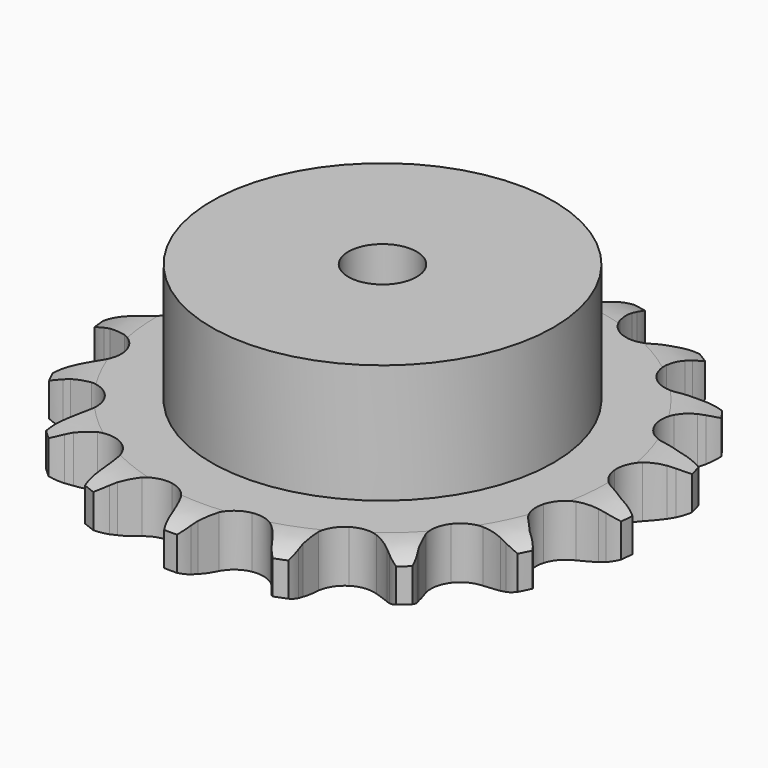
from build123d import *

# Parameters (mm, degrees)
PAD_DEPTH         = 9.1
SKETCH001_R       = 30
PAD001_DEPTH      = 30
SKETCH002_R       = 6
POCKET_DEPTH      = 0.001
POCKET_DEPTH_BACK = -30.001


with BuildPart() as part:
    # Sprocket → Pad (new body)
    with BuildSketch(Plane.XY):
        with BuildLine():
            ThreePointArc((-8.836145, 47.269199), (-7.344654, 45.791561), (-6.264221, 43.991388))
            Line((-6.264221, 43.991388), (-5.782246, 42.899818))
            ThreePointArc((-5.782246, 42.899818), (-4.996348, 41.390123), (-4.023701, 39.993422))
            ThreePointArc((-4.023701, 39.993422), (-2.23338, 38.564077), (0, 38.053892))
            ThreePointArc((0, 38.053892), (2.23338, 38.564077), (4.023701, 39.993422))
            ThreePointArc((4.023701, 39.993422), (4.996348, 41.390123), (5.782246, 42.899818))
            Line((5.782246, 42.899818), (6.264221, 43.991388))
            ThreePointArc((6.264221, 43.991388), (7.344654, 45.791561), (8.836145, 47.269199))
            ThreePointArc((8.836145, 47.269199), (9.693134, 45.352554), (10.05031, 43.283645))
            Line((10.05031, 43.283645), (10.105418, 42.091677))
            ThreePointArc((10.105418, 42.091677), (10.292881, 40.400029), (10.695301, 38.746284))
            ThreePointArc((10.695301, 38.746284), (11.848387, 36.766721), (13.746651, 35.484198))
            ThreePointArc((13.746651, 35.484198), (16.013516, 35.153141), (18.19928, 35.839227))
            Line((18.19928, 35.839227), (20.888986, 37.914101))
            ThreePointArc((20.888986, 37.914101), (21.301372, 38.345463), (21.732734, 38.75785))
            ThreePointArc((21.732734, 38.75785), (23.390506, 40.046164), (25.315064, 40.885232))
            ThreePointArc((25.315064, 40.885232), (25.42181, 38.788433), (25.007491, 36.730206))
            Line((25.007491, 36.730206), (24.628289, 35.598822))
            ThreePointArc((24.628289, 35.598822), (24.192, 33.953688), (23.969844, 32.266245))
            ThreePointArc((23.969844, 32.266245), (24.329963, 30.003816), (25.636741, 28.122166))
            ThreePointArc((25.636741, 28.122166), (27.630939, 26.994579), (29.916945, 26.844746))
            Line((29.916945, 26.844746), (33.174552, 27.807874))
            ThreePointArc((33.174552, 27.807874), (33.714917, 28.061136), (34.266121, 28.289849))
            ThreePointArc((34.266121, 28.289849), (36.27734, 28.89231), (38.375043, 28.979487))
            ThreePointArc((38.375043, 28.979487), (37.71713, 26.98572), (36.587272, 25.21615))
            Line((36.587272, 25.21615), (35.824974, 24.298149))
            ThreePointArc((35.824974, 24.298149), (34.823855, 22.921713), (34.007126, 21.428472))
            ThreePointArc((34.007126, 21.428472), (33.525643, 19.188728), (34.064447, 16.962079))
            ThreePointArc((34.064447, 16.962079), (35.51665, 15.190249), (37.594161, 14.224733))
            Line((37.594161, 14.224733), (40.979711, 13.94604))
            ThreePointArc((40.979711, 13.94604), (41.575076, 13.986997), (42.171679, 14.001148))
            ThreePointArc((42.171679, 14.001148), (44.264718, 13.83639), (46.25226, 13.159903))
            ThreePointArc((46.25226, 13.159903), (44.918543, 11.538435), (43.225739, 10.296512))
            Line((43.225739, 10.296512), (42.183297, 9.715876))
            ThreePointArc((42.183297, 9.715876), (40.752555, 8.794033), (39.451557, 7.696664))
            ThreePointArc((39.451557, 7.696664), (38.1935, 5.782097), (37.891561, 3.51117))
            ThreePointArc((37.891561, 3.51117), (38.60564, 1.334391), (40.194078, -0.316409))
            Line((40.194078, -0.316409), (43.250334, -1.799284))
            ThreePointArc((43.250334, -1.799284), (43.82029, -1.976163), (44.381718, -2.178486))
            ThreePointArc((44.381718, -2.178486), (46.273901, -3.088211), (47.882854, -4.437))
            ThreePointArc((47.882854, -4.437), (46.053458, -5.467179), (44.02633, -6.013726))
            Line((44.02633, -6.013726), (42.844532, -6.17858))
            ThreePointArc((42.844532, -6.17858), (41.177397, -6.521329), (39.567837, -7.074621))
            ThreePointArc((39.567837, -7.074621), (37.703112, -8.405439), (36.601209, -10.413942))
            ThreePointArc((36.601209, -10.413942), (36.480725, -12.701683), (37.365561, -14.814818))
            Line((37.365561, -14.814818), (39.679759, -17.301605))
            ThreePointArc((39.679759, -17.301605), (40.147331, -17.672432), (40.597759, -18.063903))
            ThreePointArc((40.597759, -18.063903), (42.033538, -19.595732), (43.046602, -21.434661))
            ThreePointArc((43.046602, -21.434661), (40.968597, -21.73442), (38.880922, -21.511778))
            Line((38.880922, -21.511778), (37.719376, -21.238585))
            ThreePointArc((37.719376, -21.238585), (36.041004, -20.95595), (34.340262, -20.890439))
            ThreePointArc((34.340262, -20.890439), (32.12071, -21.457773), (30.367662, -22.932594))
            ThreePointArc((30.367662, -22.932594), (29.428886, -25.022325), (29.490618, -27.312404))
            Line((29.490618, -27.312404), (30.750212, -30.467248))
            ThreePointArc((30.750212, -30.467248), (31.052252, -30.98194), (31.330849, -31.50969))
            ThreePointArc((31.330849, -31.50969), (32.116312, -33.456741), (32.396668, -35.537452))
            ThreePointArc((32.396668, -35.537452), (30.350701, -35.066308), (28.484429, -34.104544))
            Line((28.484429, -34.104544), (27.500009, -33.4302))
            ThreePointArc((27.500009, -33.4302), (26.037073, -32.560353), (24.474843, -31.884887))
            ThreePointArc((24.474843, -31.884887), (22.200229, -31.612116), (20.032793, -32.354071))
            ThreePointArc((20.032793, -32.354071), (18.402513, -33.963563), (17.632804, -36.121299))
            Line((17.632804, -36.121299), (17.66768, -39.518121))
            ThreePointArc((17.66768, -39.518121), (17.763395, -40.107166), (17.832533, -40.699919))
            ThreePointArc((17.832533, -40.699919), (17.8616, -42.799232), (17.371385, -44.840714))
            ThreePointArc((17.371385, -44.840714), (15.633775, -43.662296), (14.240957, -42.091303))
            Line((14.240957, -42.091303), (13.566613, -41.106882))
            ThreePointArc((13.566613, -41.106882), (12.516691, -39.767301), (11.303962, -38.573105))
            ThreePointArc((11.303962, -38.573105), (9.281483, -37.497068), (6.992384, -37.405952))
            ThreePointArc((6.992384, -37.405952), (4.890778, -38.317833), (3.393582, -40.051811))
            Line((3.393582, -40.051811), (2.199029, -43.231852))
            ThreePointArc((2.199029, -43.231852), (2.075493, -43.815697), (1.925836, -44.393398))
            ThreePointArc((1.925836, -44.393398), (1.19458, -46.361449), (0, -48.087988))
            ThreePointArc((0, -48.087988), (-1.19458, -46.361449), (-1.925836, -44.393398))
            Line((-1.925836, -44.393398), (-2.199029, -43.231852))
            ThreePointArc((-2.199029, -43.231852), (-2.694139, -41.603454), (-3.393582, -40.051811))
            ThreePointArc((-3.393582, -40.051811), (-4.890778, -38.317833), (-6.992384, -37.405952))
            ThreePointArc((-6.992384, -37.405952), (-9.281483, -37.497068), (-11.303962, -38.573105))
            Line((-11.303962, -38.573105), (-13.566613, -41.106882))
            ThreePointArc((-13.566613, -41.106882), (-13.892716, -41.606675), (-14.240957, -42.091303))
            ThreePointArc((-14.240957, -42.091303), (-15.633775, -43.662296), (-17.371385, -44.840714))
            ThreePointArc((-17.371385, -44.840714), (-17.8616, -42.799232), (-17.832533, -40.699919))
            Line((-17.832533, -40.699919), (-17.66768, -39.518121))
            ThreePointArc((-17.66768, -39.518121), (-17.541111, -37.82083), (-17.632804, -36.121299))
            ThreePointArc((-17.632804, -36.121299), (-18.402513, -33.963563), (-20.032793, -32.354071))
            ThreePointArc((-20.032793, -32.354071), (-22.200229, -31.612116), (-24.474843, -31.884887))
            Line((-24.474843, -31.884887), (-27.500009, -33.4302))
            ThreePointArc((-27.500009, -33.4302), (-27.984636, -33.778442), (-28.484429, -34.104544))
            ThreePointArc((-28.484429, -34.104544), (-30.350701, -35.066308), (-32.396668, -35.537452))
            ThreePointArc((-32.396668, -35.537452), (-32.116312, -33.456741), (-31.330849, -31.50969))
            Line((-31.330849, -31.50969), (-30.750212, -30.467248))
            ThreePointArc((-30.750212, -30.467248), (-30.019059, -28.930294), (-29.490618, -27.312404))
            ThreePointArc((-29.490618, -27.312404), (-29.428886, -25.022325), (-30.367662, -22.932594))
            ThreePointArc((-30.367662, -22.932594), (-32.12071, -21.457773), (-34.340262, -20.890439))
            Line((-34.340262, -20.890439), (-37.719376, -21.238585))
            ThreePointArc((-37.719376, -21.238585), (-38.297077, -21.388242), (-38.880922, -21.511778))
            ThreePointArc((-38.880922, -21.511778), (-40.968597, -21.73442), (-43.046602, -21.434661))
            ThreePointArc((-43.046602, -21.434661), (-42.033538, -19.595732), (-40.597759, -18.063903))
            Line((-40.597759, -18.063903), (-39.679759, -17.301605))
            ThreePointArc((-39.679759, -17.301605), (-38.442766, -16.132561), (-37.365561, -14.814818))
            ThreePointArc((-37.365561, -14.814818), (-36.480725, -12.701683), (-36.601209, -10.413942))
            ThreePointArc((-36.601209, -10.413942), (-37.703112, -8.405439), (-39.567837, -7.074621))
            Line((-39.567837, -7.074621), (-42.844532, -6.17858))
            ThreePointArc((-42.844532, -6.17858), (-43.437285, -6.109442), (-44.02633, -6.013726))
            ThreePointArc((-44.02633, -6.013726), (-46.053458, -5.467179), (-47.882854, -4.437))
            ThreePointArc((-47.882854, -4.437), (-46.273901, -3.088211), (-44.381718, -2.178486))
            Line((-44.381718, -2.178486), (-43.250334, -1.799284))
            ThreePointArc((-43.250334, -1.799284), (-41.674565, -1.156036), (-40.194078, -0.316409))
            ThreePointArc((-40.194078, -0.316409), (-38.60564, 1.334391), (-37.891561, 3.51117))
            ThreePointArc((-37.891561, 3.51117), (-38.1935, 5.782097), (-39.451557, 7.696664))
            Line((-39.451557, 7.696664), (-42.183297, 9.715876))
            ThreePointArc((-42.183297, 9.715876), (-42.711047, 9.994472), (-43.225739, 10.296512))
            ThreePointArc((-43.225739, 10.296512), (-44.918543, 11.538435), (-46.25226, 13.159903))
            ThreePointArc((-46.25226, 13.159903), (-44.264718, 13.83639), (-42.171679, 14.001148))
            Line((-42.171679, 14.001148), (-40.979711, 13.94604))
            ThreePointArc((-40.979711, 13.94604), (-39.277983, 13.976618), (-37.594161, 14.224733))
            ThreePointArc((-37.594161, 14.224733), (-35.51665, 15.190249), (-34.064447, 16.962079))
            ThreePointArc((-34.064447, 16.962079), (-33.525643, 19.188728), (-34.007126, 21.428472))
            Line((-34.007126, 21.428472), (-35.824974, 24.298149))
            ThreePointArc((-35.824974, 24.298149), (-36.216445, 24.748578), (-36.587272, 25.21615))
            ThreePointArc((-36.587272, 25.21615), (-37.71713, 26.98572), (-38.375043, 28.979487))
            ThreePointArc((-38.375043, 28.979487), (-36.27734, 28.89231), (-34.266121, 28.289849))
            Line((-34.266121, 28.289849), (-33.174552, 27.807874))
            ThreePointArc((-33.174552, 27.807874), (-31.576691, 27.221652), (-29.916945, 26.844746))
            ThreePointArc((-29.916945, 26.844746), (-27.630939, 26.994579), (-25.636741, 28.122166))
            ThreePointArc((-25.636741, 28.122166), (-24.329963, 30.003816), (-23.969844, 32.266245))
            Line((-23.969844, 32.266245), (-24.628289, 35.598822))
            ThreePointArc((-24.628289, 35.598822), (-24.830612, 36.16025), (-25.007491, 36.730206))
            ThreePointArc((-25.007491, 36.730206), (-25.42181, 38.788433), (-25.315064, 40.885232))
            ThreePointArc((-25.315064, 40.885232), (-23.390506, 40.046164), (-21.732734, 38.75785))
            Line((-21.732734, 38.75785), (-20.888986, 37.914101))
            ThreePointArc((-20.888986, 37.914101), (-19.610793, 36.790251), (-18.19928, 35.839227))
            ThreePointArc((-18.19928, 35.839227), (-16.013516, 35.153141), (-13.746651, 35.484198))
            ThreePointArc((-13.746651, 35.484198), (-11.848387, 36.766721), (-10.695301, 38.746284))
            Line((-10.695301, 38.746284), (-10.105418, 42.091677))
            ThreePointArc((-10.105418, 42.091677), (-10.091267, 42.688281), (-10.05031, 43.283645))
            ThreePointArc((-10.05031, 43.283645), (-9.693134, 45.352554), (-8.836145, 47.269199))
        make_face()
    extrude(amount=PAD_DEPTH)

    # Sketch → Groove (revolve, cut)
    with BuildSketch(Plane.XZ):
        with BuildLine():
            Line((39.525762, 0), (46.5, 0))
            Line((53.474238, 0), (46.5, 0))
            Line((53.474238, 9.1), (53.474238, 0))
            Line((46.5, 9.1), (53.474238, 9.1))
            Line((39.525762, 9.1), (46.5, 9.1))
            ThreePointArc((46.5, 7.5), (43.10347, 8.694871), (39.525762, 9.1))
            Line((46.5, 1.6), (46.5, 7.5))
            ThreePointArc((39.525762, 0), (43.10347, 0.405129), (46.5, 1.6))
        make_face()
    revolve(axis=Axis((0, 0, 0), (0, 0, 1)), mode=Mode.SUBTRACT)

    # Sketch001 → Pad001 (join)
    with BuildSketch(Plane.XY):
        Circle(SKETCH001_R)
    extrude(amount=PAD001_DEPTH)

    # Sketch002 → Pocket (cut, two sides)
    with BuildSketch(Plane.XY) as pocket_sk:
        Circle(SKETCH002_R)
    extrude(amount=-POCKET_DEPTH, mode=Mode.SUBTRACT)
    extrude(pocket_sk.sketch, amount=-POCKET_DEPTH_BACK, mode=Mode.SUBTRACT)


solid = part.part
